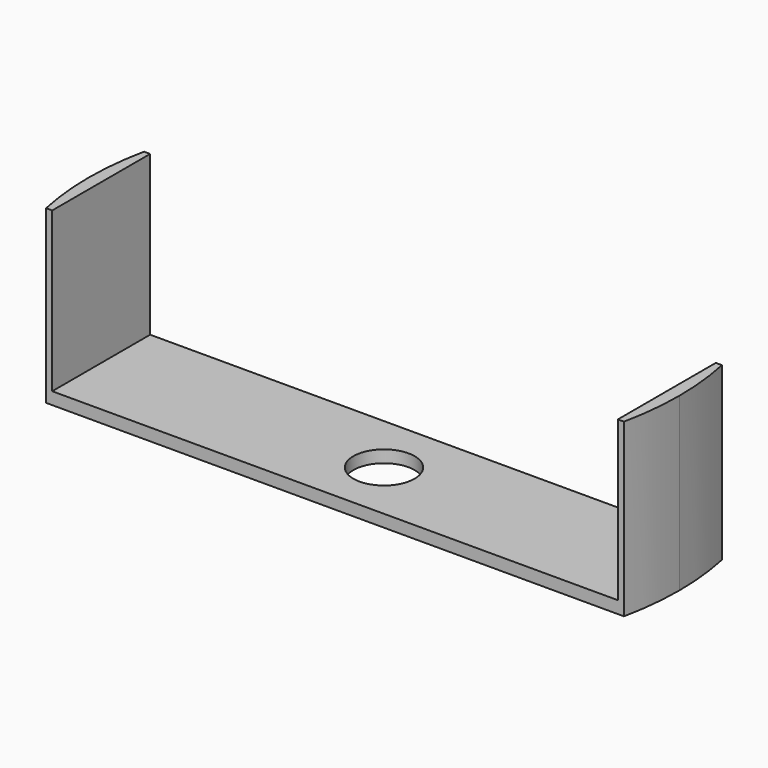
from build123d import *

# Parameters (mm, degrees)
F1_DEPTH = 56
F2_W     = 184.809428
F2_H     = 40
F2_R     = 10
F3_DEPTH = 52
F4_DEPTH = 60


with BuildPart() as f1:
    # F0 (on Top) → F1 (new body)
    with BuildSketch(Plane.XY):
        with BuildLine():
            ThreePointArc((94.404714, -20), (95.974749, -10.054728), (96.5, 0))
            ThreePointArc((96.5, 0), (95.974749, 10.054728), (94.404714, 20))
            Line((94.404714, 20), (0, 20))
            Line((0, 20), (-94.404714, 20))
            ThreePointArc((-94.404714, 20), (-96.5, 0), (-94.404714, -20))
            Line((-94.404714, -20), (0, -20))
            Line((0, -20), (94.404714, -20))
        make_face()
    extrude(amount=F1_DEPTH)

    # F2 (on face) → F3 (cut)
    with BuildSketch(Plane.XY.offset(56)):
        Rectangle(F2_W, F2_H)
        Circle(F2_R, mode=Mode.SUBTRACT)
    extrude(amount=-F3_DEPTH, mode=Mode.SUBTRACT)

    # F2 (on face) → F4 (cut)
    with BuildSketch(Plane.XY.offset(56)):
        Circle(F2_R)
    extrude(amount=-F4_DEPTH, mode=Mode.SUBTRACT)


solid = f1.part
